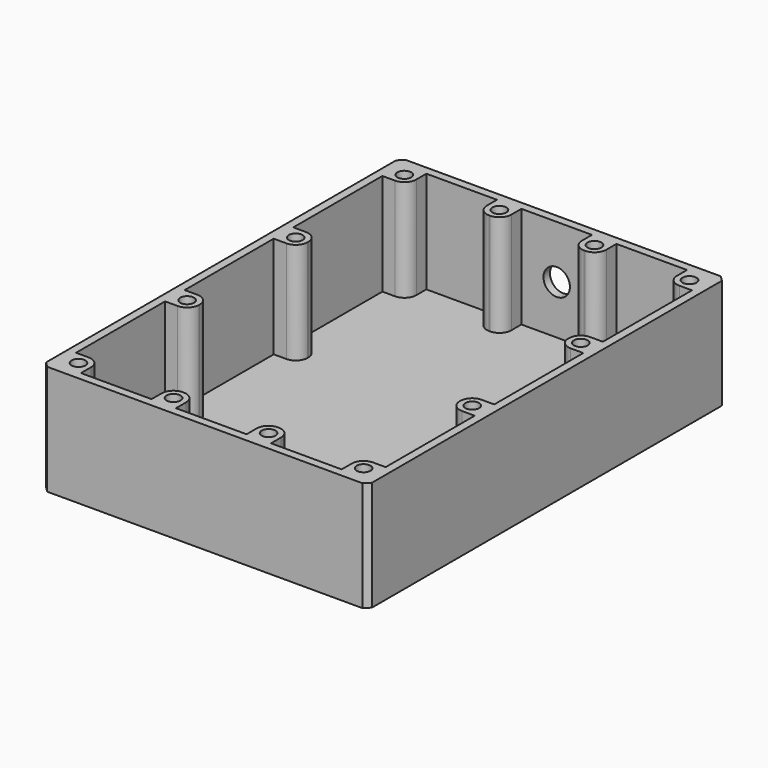
from build123d import *

# Parameters (mm, degrees)
SKETCH024_W     = 80
SKETCH024_H     = 110
PAD008_DEPTH    = 2
SKETCH030_W     = 80
SKETCH030_H     = 110
PAD009_DEPTH    = 25
SKETCH029_R     = 1.7
POCKET016_DEPTH = 10
SKETCH031_R     = 3.25
POCKET017_DEPTH = 2.001
FILLET006_R     = 2.9
CHAMFER005_SIZE = 1.3


with BuildPart() as part:
    # Sketch024 → Pad008 (new body)
    with BuildSketch(Plane.XY):
        with Locations((0, 55)):
            Rectangle(SKETCH024_W, SKETCH024_H)
    extrude(amount=PAD008_DEPTH)

    # Sketch030 (on Face6 of Pad008) → Pad009 (join)
    with BuildSketch(Plane.XY.offset(2)):
        with Locations((0, 55)):
            Rectangle(SKETCH030_W, SKETCH030_H)
        Polygon((-38, 102), (-32, 102), (-32, 108), (-14.67, 108), (-14.67, 102), (-8.67, 102), (-8.67, 108), (8.66, 108), (8.66, 102), (14.66, 102), (14.66, 108), (31.99, 108), (31.99, 102), (38, 102), (38, 74.66), (32, 74.66), (32, 68.66), (38, 68.66), (38, 41.33), (32, 41.33), (32, 35.33), (38, 35.33), (38, 8), (32, 8), (32, 2), (14.66, 2), (14.66, 8), (8.66, 8), (8.66, 2), (-8.67, 2), (-8.67, 8), (-14.67, 8), (-14.67, 2), (-32, 2), (-32, 8), (-38, 8), (-38, 35.33), (-32, 35.33), (-32, 41.33), (-38, 41.33), (-38, 68.66), (-32, 68.66), (-32, 74.66), (-38, 74.66), align=None, mode=Mode.SUBTRACT)
    extrude(amount=PAD009_DEPTH)

    # Sketch029 (on Face3 of Pad009) → Pocket016 (cut)
    with BuildSketch(Plane.XY.offset(27)):
        with Locations((-11.667, 5)):
            Circle(SKETCH029_R)
        with Locations((11.666, 5)):
            Circle(SKETCH029_R)
        with Locations((35, 5)):
            Circle(SKETCH029_R)
        with Locations((-35, 38.333)):
            Circle(SKETCH029_R)
        with Locations((-35, 71.666)):
            Circle(SKETCH029_R)
        with Locations((-35, 105)):
            Circle(SKETCH029_R)
        with Locations((35, 38.333)):
            Circle(SKETCH029_R)
        with Locations((35, 71.666)):
            Circle(SKETCH029_R)
        with Locations((35, 105)):
            Circle(SKETCH029_R)
        with Locations((-11.667, 105)):
            Circle(SKETCH029_R)
        with Locations((11.666, 105)):
            Circle(SKETCH029_R)
        with Locations((-35, 5)):
            Circle(SKETCH029_R)
    extrude(amount=-POCKET016_DEPTH, mode=Mode.SUBTRACT)

    # Sketch031 (on Face28 of Pocket016) → Pocket017 (cut, through all)
    with BuildSketch(Plane.XZ.offset(-108)):
        with Locations((0, 14)):
            Circle(SKETCH031_R)
    extrude(amount=-POCKET017_DEPTH, mode=Mode.SUBTRACT)

    # Fillet006
    fillet006_edges = [part.edges().sort_by_distance(p)[0] for p in [
        (-32, 8, 14.5),
        (-14.67, 8, 14.5),
        (-8.67, 8, 14.5),
        (8.66, 8, 14.5),
        (14.66, 8, 14.5),
        (32, 8, 14.5),
        (-32, 35.33, 14.5),
        (-32, 41.33, 14.5),
        (-32, 68.66, 14.5),
        (-32, 74.66, 14.5),
        (32, 35.33, 14.5),
        (32, 41.33, 14.5),
        (32, 68.66, 14.5),
        (32, 74.66, 14.5),
        (31.99, 102, 14.5),
        (14.66, 102, 14.5),
        (8.66, 102, 14.5),
        (-8.67, 102, 14.5),
        (-14.67, 102, 14.5),
        (-32, 102, 14.5),
    ]]
    fillet(fillet006_edges, radius=FILLET006_R)

    # Chamfer005
    chamfer005_edges = [part.edges().sort_by_distance(p)[0] for p in [
        (40, 110, 13.5),
        (-40, 110, 13.5),
        (40, 0, 13.5),
        (-40, 0, 13.5),
    ]]
    chamfer(chamfer005_edges, length=CHAMFER005_SIZE)


solid = part.part
